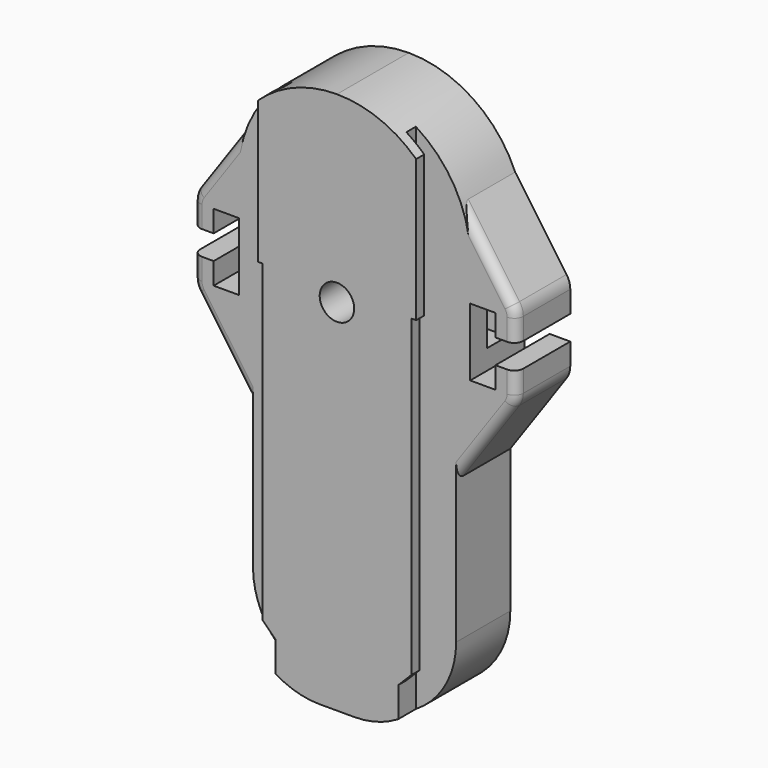
from build123d import *

# Parameters (mm, degrees)
SKETCH_W             = 27.1622
SKETCH_H             = 120.2182
PAD_DEPTH            = 4.8768
SKETCH001_W          = 35.087
SKETCH001_H          = 120.2182
PAD001_DEPTH         = 2.24
SKETCH002_W          = 55.087
SKETCH002_H          = 140.2182
POCKET_DEPTH         = 4.8778
PAD002_DEPTH         = 15
SKETCH004_W          = 71.2318
SKETCH004_H          = 140.2182
POCKET001_DEPTH      = 15.001
POCKET001_DEPTH_BACK = 4.8778
PAD008_DEPTH         = 15
SKETCH018_W          = 5.6
SKETCH018_H          = 15.6
POCKET007_DEPTH      = 31.2159
SKETCH019_W          = 8.22
SKETCH019_H          = 8.22
POCKET008_DEPTH      = 110.739
SKETCH022_R          = 3.8179
POCKET010_DEPTH      = 9.525
FILLET006_R          = 2
FILLET007_R          = 2


with BuildPart() as part:
    # Sketch → Pad (new body)
    with BuildSketch(Plane.XZ):
        with Locations((0, 60.1091)):
            Rectangle(SKETCH_W, SKETCH_H)
    extrude(amount=PAD_DEPTH)

    # Sketch001 → Pad001 (join)
    with BuildSketch(Plane.XZ.offset(4.8768)):
        with Locations((0, 60.1091)):
            Rectangle(SKETCH001_W, SKETCH001_H)
    extrude(amount=-PAD001_DEPTH)

    # Sketch002 → Pocket (cut, through all)
    with BuildSketch(Plane.XZ):
        with Locations((0, 60.1091)):
            Rectangle(SKETCH002_W, SKETCH002_H)
        Polygon((-13.5811, 0), (13.5811, 0), (13.5811, 9.398), (16.464, 12.2936), (16.464, 81.8388), (17.5435, 81.8388), (17.5435, 120.2182), (-17.5435, 120.2182), (-17.5435, 81.8388), (-16.464, 81.8388), (-16.464, 12.2936), (-13.5811, 9.398), align=None, mode=Mode.SUBTRACT)
    extrude(amount=POCKET_DEPTH, mode=Mode.SUBTRACT)

    # Sketch003 → Pad002 (join)
    with BuildSketch(Plane.XZ):
        with BuildLine():
            Line((-22.5044, 0), (22.5044, 0))
            Line((22.5044, 0), (22.5044, 63.215202))
            ThreePointArc((22.75823, 64.3128), (22.568684, 63.778485), (22.5044, 63.215202))
            Line((25.36207, 69.641402), (22.75823, 64.3128))
            ThreePointArc((25.36207, 69.641402), (25.551616, 70.175717), (25.6159, 70.739))
            Line((25.6159, 120.2182), (25.6159, 70.739))
            Line((-25.6159, 120.2182), (25.6159, 120.2182))
            Line((-25.6159, 70.739), (-25.6159, 120.2182))
            ThreePointArc((-25.6159, 70.739), (-25.551616, 70.175717), (-25.36207, 69.641402))
            Line((-25.36207, 69.641402), (-22.75823, 64.3128))
            ThreePointArc((-22.5044, 63.215202), (-22.568684, 63.778485), (-22.75823, 64.3128))
            Line((-22.5044, 63.215202), (-22.5044, 0))
        make_face()
    extrude(amount=-PAD002_DEPTH)

    # Sketch004 → Pocket001 (cut, two sides)
    with BuildSketch(Plane.XZ) as pocket001_sk:
        with Locations((0, 60.1091)):
            Rectangle(SKETCH004_W, SKETCH004_H)
        with BuildLine():
            ThreePointArc((-22.5044, 18.6944), (-17.028937, 5.475463), (-3.81, 0))
            Line((-3.81, 0), (3.81, 0))
            ThreePointArc((3.81, 0), (17.028937, 5.475463), (22.5044, 18.6944))
            Line((22.5044, 18.6944), (22.5044, 59.3128))
            Line((22.5044, 59.3128), (25.6159, 59.3128))
            Line((25.6159, 59.3128), (25.6159, 94.6023))
            ThreePointArc((25.6159, 94.6023), (18.113177, 112.715477), (0, 120.2182))
            ThreePointArc((0, 120.2182), (-18.113177, 112.715477), (-25.6159, 94.6023))
            Line((-25.6159, 94.6023), (-25.6159, 59.3128))
            Line((-25.6159, 59.3128), (-22.5044, 59.3128))
            Line((-22.5044, 59.3128), (-22.5044, 18.6944))
        make_face(mode=Mode.SUBTRACT)
    extrude(amount=-POCKET001_DEPTH, mode=Mode.SUBTRACT)
    extrude(pocket001_sk.sketch, amount=POCKET001_DEPTH_BACK, mode=Mode.SUBTRACT)

    # Sketch014 → Pad008 (join)
    with BuildSketch(Plane.XZ):
        with BuildLine():
            Line((31.2159, 70.739), (31.2159, 75.539))
            Line((31.2159, 75.539), (35.7859, 75.539))
            Line((35.7859, 70.739), (35.7859, 75.539))
            ThreePointArc((34.959425, 68.117756), (35.574386, 69.364774), (35.7859, 70.739))
            Line((22.5044, 50.330137), (34.959425, 68.117756))
            Line((22.5044, 106.147863), (22.5044, 50.330137))
            Line((22.5044, 106.147863), (34.959425, 88.360244))
            ThreePointArc((35.7859, 85.739), (35.574386, 87.113226), (34.959425, 88.360244))
            Line((35.7859, 80.939), (35.7859, 85.739))
            Line((31.2159, 80.939), (35.7859, 80.939))
            Line((31.2159, 80.939), (31.2159, 85.739))
            Line((31.2159, 85.739), (25.6159, 85.739))
            Line((25.6159, 85.739), (25.6159, 70.739))
            Line((25.6159, 70.739), (31.2159, 70.739))
        make_face()
    pad008 = extrude(amount=-PAD008_DEPTH)

    # Mirrored001: Pad008 across Sketch014 V_Axis
    add(pad008.mirror(Plane(origin=(0, 0, 0), x_dir=(0, -1, 0), z_dir=(1, 0, 0))))

    # Sketch018 → Pocket007 (cut, symmetric)
    with BuildSketch(Plane.YZ):
        with Locations((7.5, 82.939)):
            Rectangle(SKETCH018_W, SKETCH018_H)
    extrude(amount=POCKET007_DEPTH, both=True, mode=Mode.SUBTRACT)

    # Sketch019 → Pocket008 (cut)
    with BuildSketch(Plane.XY):
        with Locations((0, 8.81)):
            Rectangle(SKETCH019_W, SKETCH019_H)
    extrude(amount=POCKET008_DEPTH, mode=Mode.SUBTRACT)

    # Sketch022 → Pocket010 (cut)
    with BuildSketch(Plane.XZ.offset(4.8768)):
        with Locations((0, 79.6417)):
            Circle(SKETCH022_R)
    extrude(amount=-POCKET010_DEPTH, mode=Mode.SUBTRACT)

    # Fillet006
    fillet006_edges = [part.edges().sort_by_distance(p)[0] for p in [
        (-35.7859, 0, 73.139),
        (35.7859, 0, 83.339),
        (35.7859, 0, 73.139),
        (-35.7859, 0, 83.339),
    ]]
    fillet(fillet006_edges, radius=FILLET006_R)

    # Fillet007
    fillet007_edges = [part.edges().sort_by_distance(p)[0] for p in [
        (4.11, 12.92, 55.370704),
        (-4.11, 12.92, 55.370704),
        (-4.11, 4.7, 37.570704),
        (4.11, 4.7, 37.570704),
    ]]
    fillet(fillet007_edges, radius=FILLET007_R)


solid = part.part
